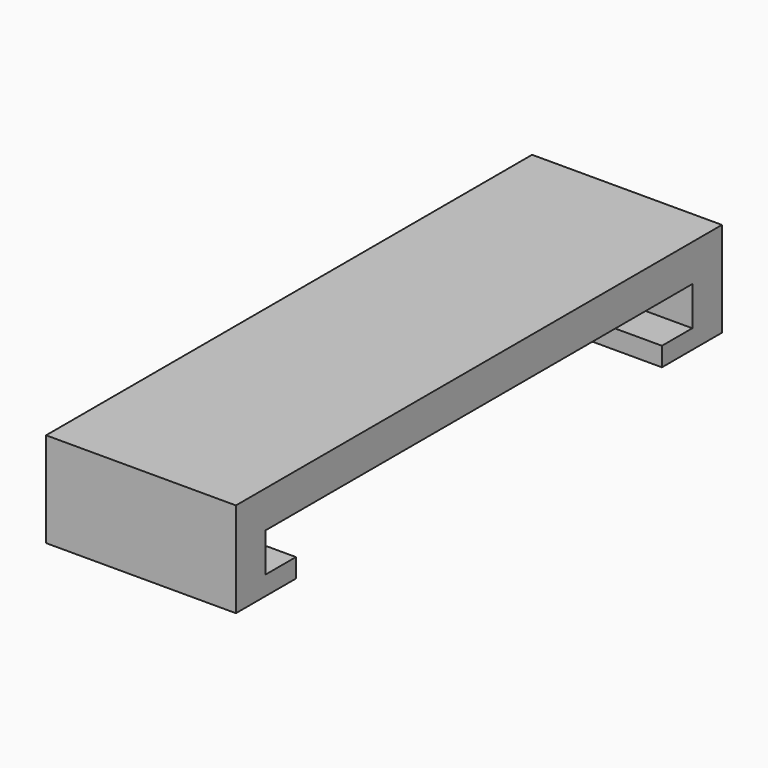
from build123d import *

# Parameters (mm, degrees)
F0_W     = 10
F0_H     = 32
F1_DEPTH = 5
F3_DEPTH = 10.001


with BuildPart() as f1:
    # F0 (on Top) → F1 (new body)
    with BuildSketch(Plane.XY):
        Rectangle(F0_W, F0_H)
    extrude(amount=F1_DEPTH)

    # F2 (on face) → F3 (cut, through all)
    with BuildSketch(Plane.YZ.offset(5)):
        Polygon((-12.05, 1), (-12.05, 0), (12.05, 0), (12.05, 1), (14.05, 1), (14.05, 3.05), (-14.05, 3.05), (-14.05, 1), align=None)
    extrude(amount=-F3_DEPTH, mode=Mode.SUBTRACT)


solid = f1.part
